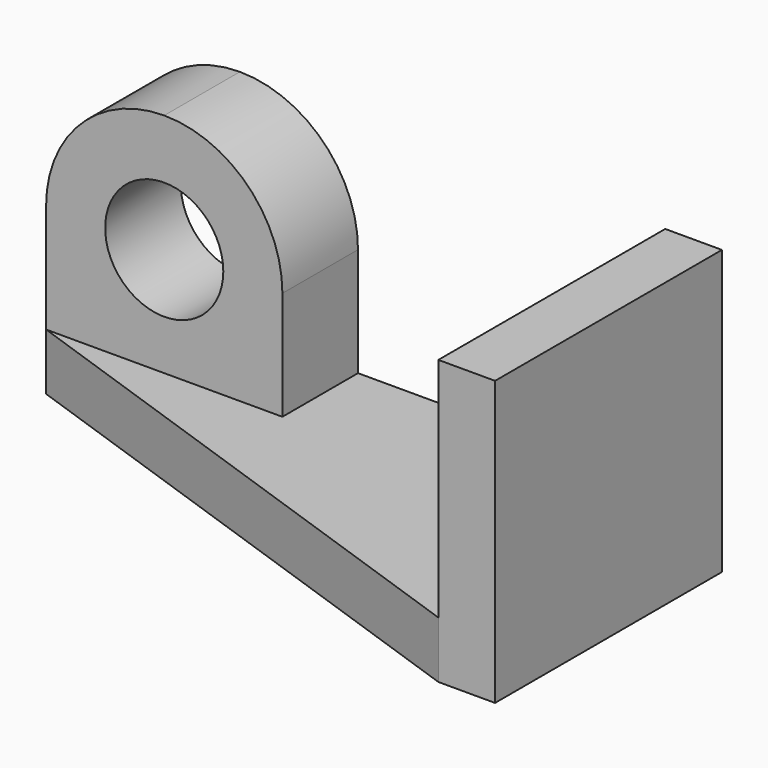
from build123d import *

# Parameters (mm, degrees)
F0_W      = 115
F0_H      = 60
F1_DEPTH  = 12
F0_W_2    = 12
F2_DEPTH  = 60
F4_DEPTH  = 25
F5_W      = 50
F5_H      = 20
F6_DEPTH  = 48
F8_DEPTH  = 25
F9_R      = 12.5
F10_DEPTH = 25


with BuildPart() as f1:
    # F0 (on Top) → F1 (new body)
    with BuildSketch(Plane.XY):
        with Locations((-0.438802, -3.920759)):
            Rectangle(F0_W, F0_H)
    extrude(amount=F1_DEPTH)

    # F0 (on Top) → F2 (join)
    with BuildSketch(Plane.XY):
        with Locations((63.061198, -3.920759)):
            Rectangle(F0_W_2, F0_H)
    extrude(amount=F2_DEPTH)

    # F3 (on face) → F4 (cut)
    with BuildSketch(Plane.XY.offset(12)):
        Polygon((57.061198, -33.920759), (-57.938802, 6.079241), (-57.938802, -33.920759), align=None)
    extrude(amount=-F4_DEPTH, mode=Mode.SUBTRACT)

    # F5 (on face) → F6 (join)
    with BuildSketch(Plane.XY.offset(12)):
        with Locations((-32.938802, 16.079241)):
            Rectangle(F5_W, F5_H)
    extrude(amount=F6_DEPTH)

    # F7 (on face) → F8 (cut)
    with BuildSketch(Plane.XZ.offset(-6.079241)):
        with BuildLine():
            Line((-57.938802, 60), (-57.938802, 35))
            ThreePointArc((-57.938802, 35), (-50.616471, 52.67767), (-32.938802, 60))
            Line((-32.938802, 60), (-57.938802, 60))
        make_face()
        with BuildLine():
            Line((-7.938802, 60), (-32.938802, 60))
            ThreePointArc((-32.938802, 60), (-15.261132, 52.67767), (-7.938802, 35))
            Line((-7.938802, 35), (-7.938802, 60))
        make_face()
    extrude(amount=-F8_DEPTH, mode=Mode.SUBTRACT)

    # F9 (on face) → F10 (cut)
    with BuildSketch(Plane.XZ.offset(-6.079241)):
        with Locations((-32.938802, 35)):
            Circle(F9_R)
    extrude(amount=-F10_DEPTH, mode=Mode.SUBTRACT)


solid = f1.part
